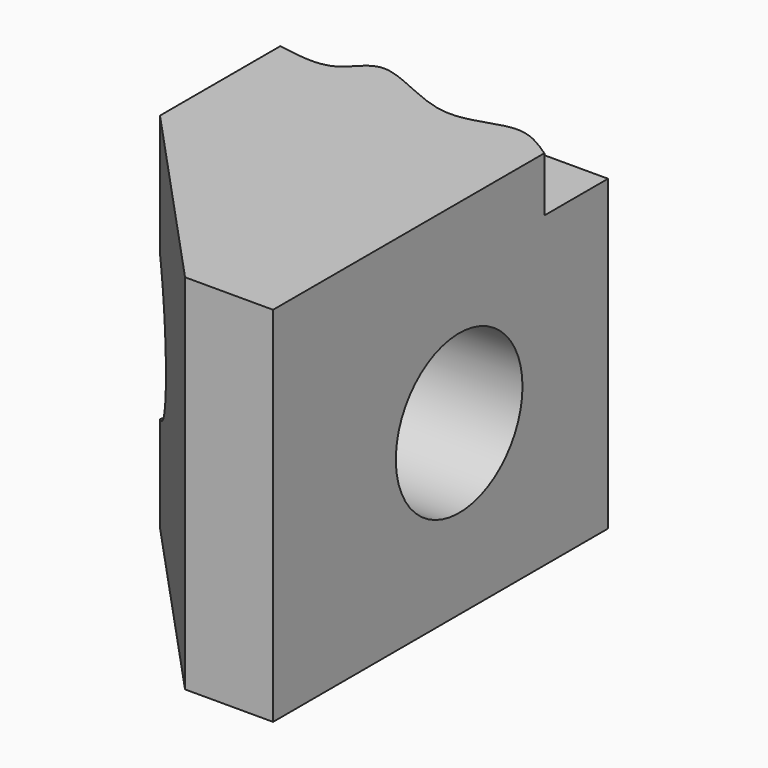
from build123d import *

# Parameters (mm, degrees)
F0_W     = 193.9907595515
F0_H     = 168.106880039
F0_R     = 36.6772862691
F1_DEPTH = 127
F3_DEPTH = 25.4
F5_DEPTH = 168.106880039


with BuildPart() as f1:
    # F0 (on Right) → F1 (new body)
    with BuildSketch(Plane.YZ):
        with Locations((-10.7772685587, 24.0554083139)):
            Rectangle(F0_W, F0_H)
        with Locations((0, 18.1110166013)):
            Circle(F0_R, mode=Mode.SUBTRACT)
    extrude(amount=F1_DEPTH)

    # F2 (on face) → F3 (cut)
    with BuildSketch(Plane.XY.offset(108.1088483334)):
        with BuildLine():
            Line((0, 86.218111217), (0, 55.2217625082))
            add(Edge.make_bspline(
                [(0, 55.2217625082), (9.6147210988, 53.4978525461), (27.0066613183, 50.3794949053), (37.4402038298, 73.9035979944), (78.6246433045, 43.3299400269), (106.8380515, 63.040830288), (120.6463905868, 53.6422520116), (127, 49.3176989257)],
                knots=[0, 0, 0, 0, 0.1967507704, 0.3558998333, 0.6065111476, 0.8189445913, 1, 1, 1, 1], degree=3))
            Line((127, 49.3176989257), (127, 86.218111217))
            Line((127, 86.218111217), (0, 86.218111217))
        make_face()
    extrude(amount=-F3_DEPTH, mode=Mode.SUBTRACT)

    # F4 (on face) → F5 (cut, through all)
    with BuildSketch(Plane.XY.offset(108.1088483334)):
        Polygon((86.2131866927, -107.7726483345), (0, -14.5187666979), (0, -107.7726483345), align=None)
    extrude(amount=-F5_DEPTH, mode=Mode.SUBTRACT)


solid = f1.part
